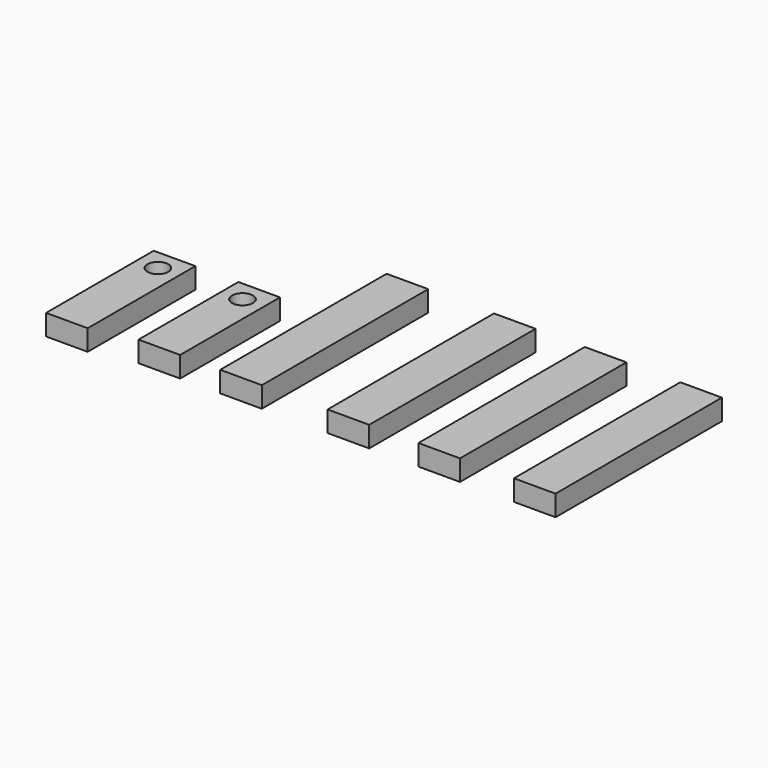
from build123d import *

# Parameters (mm, degrees)
F0_W     = 12.7
F0_H     = 38.1
F1_DEPTH = 6.35
F0_H_2   = 63.5
F3_D     = 6.35
F3_DEPTH = 63.5
F3_TIP   = 1.9077324654
F5_D     = 6.35
F5_DEPTH = 63.5
F5_TIP   = 1.9077324654
F6_W     = 12.7
F6_H     = 2.9874345932
F7_DEPTH = 6.35


with BuildPart() as f1:
    # F0 (on Top) → F1 (new body)
    with BuildSketch(Plane.XY):
        with Locations((-77.2163314581, 19.05)):
            Rectangle(F0_W, F0_H)
    extrude(amount=F1_DEPTH)

    # F3
    with Locations(Plane.XY.offset(6.35)):
        with Locations((-77.2163314581, 31.75)):
            Hole(F3_D / 2, depth=F3_DEPTH)
            with Locations((0, 0, -(F3_DEPTH + F3_TIP / 2))):  # 118° drill point
                Cone(0, F3_D / 2, F3_TIP, mode=Mode.SUBTRACT)

    # F6 (on face) → F7 (join)
    with BuildSketch(Plane.XY.offset(6.35)):
        with Locations((-77.2163314581, -1.4937172966)):
            Rectangle(F6_W, F6_H)
    extrude(amount=-F7_DEPTH)


with BuildPart() as f1b:
    # F0 (on Top) → F1, piece 2 (new body)
    with BuildSketch(Plane.XY):
        with Locations((-51.3776572585, 19.05)):
            Rectangle(F0_W, F0_H)
    extrude(amount=F1_DEPTH)

    # F5
    with Locations(Plane.XY.offset(6.35)):
        with Locations((-51.3776572585, 31.75)):
            Hole(F5_D / 2, depth=F5_DEPTH)
            with Locations((0, 0, -(F5_DEPTH + F5_TIP / 2))):  # 118° drill point
                Cone(0, F5_D / 2, F5_TIP, mode=Mode.SUBTRACT)


with BuildPart() as f1c:
    # F0 (on Top) → F1, piece 3 (new body)
    with BuildSketch(Plane.XY):
        with Locations((-26.4272063859, 31.75)):
            Rectangle(F0_W, F0_H_2)
    extrude(amount=F1_DEPTH)


with BuildPart() as f1d:
    # F0 (on Top) → F1, piece 4 (new body)
    with BuildSketch(Plane.XY):
        with Locations((6.35, 31.75)):
            Rectangle(F0_W, F0_H_2)
    extrude(amount=F1_DEPTH)


with BuildPart() as f1e:
    # F0 (on Top) → F1, piece 5 (new body)
    with BuildSketch(Plane.XY):
        with Locations((34.0845628316, 31.75)):
            Rectangle(F0_W, F0_H_2)
    extrude(amount=F1_DEPTH)


with BuildPart() as f1f:
    # F0 (on Top) → F1, piece 6 (new body)
    with BuildSketch(Plane.XY):
        with Locations((63.2525911391, 31.75)):
            Rectangle(F0_W, F0_H_2)
    extrude(amount=F1_DEPTH)


solid = Compound([f1.part, f1b.part, f1c.part, f1d.part, f1e.part, f1f.part])
